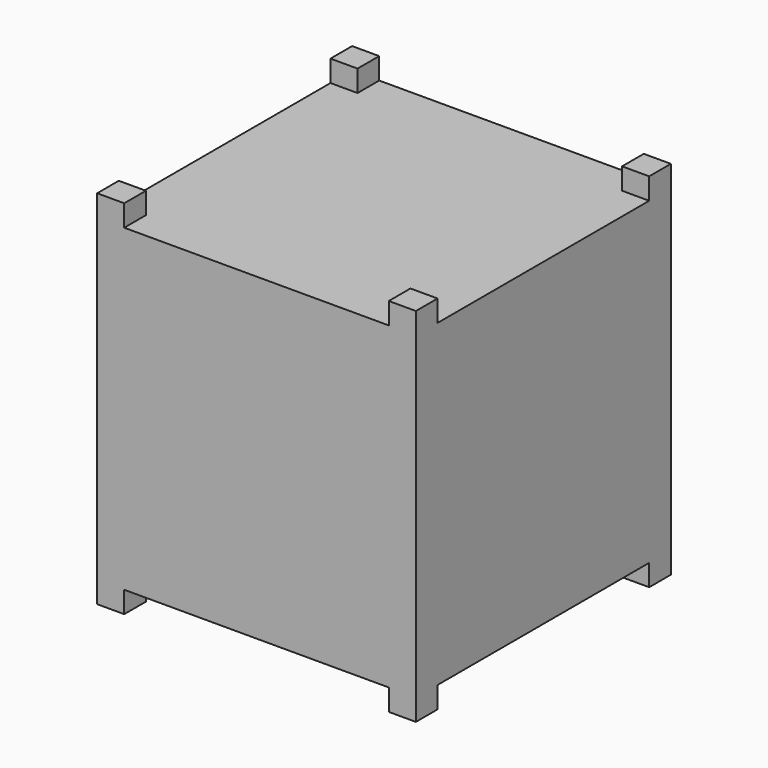
from build123d import *

# Parameters (mm, degrees)
F0_W     = 100
F0_H     = 100
F1_DEPTH = 50
F2_W     = 8.5
F2_H     = 8.5
F3_DEPTH = 56.75


with BuildPart() as f1:
    # F0 (on Top) → F1 (new body, symmetric)
    with BuildSketch(Plane.XY):
        Rectangle(F0_W, F0_H)
    extrude(amount=F1_DEPTH, both=True)

    # F2 (on Top) → F3 (join, symmetric)
    with BuildSketch(Plane.XY):
        with Locations((-45.75, 45.75)):
            Rectangle(F2_W, F2_H)
        with Locations((45.75, 45.75)):
            Rectangle(F2_W, F2_H)
        with Locations((45.75, -45.75)):
            Rectangle(F2_W, F2_H)
        with Locations((-45.75, -45.75)):
            Rectangle(F2_W, F2_H)
    extrude(amount=F3_DEPTH, both=True)


solid = f1.part
